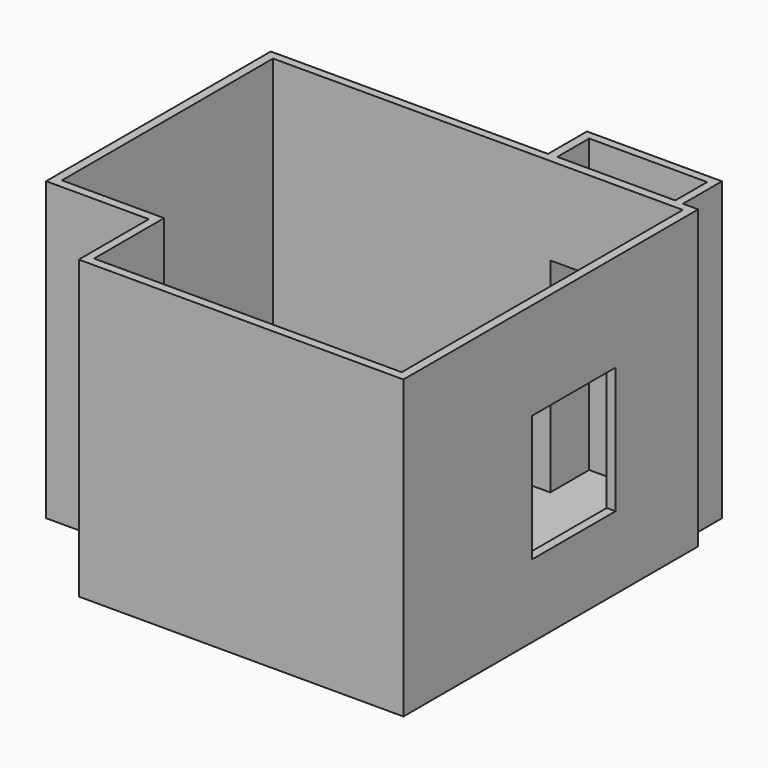
from build123d import *

# Parameters (mm, degrees)
F1_DEPTH  = 3048
F2_W      = 1092.2
F2_H      = 1320.8
F3_DEPTH  = 101.6
F4_W      = 812.8
F4_H      = 2133.6
F5_DEPTH  = 101.6
F7_DEPTH  = 50.8
F8_W      = 1231.9
F8_H      = 914.4
F9_DEPTH  = 92.075
F11_R     = 4.7625
F12_DEPTH = 152.4


with BuildPart() as f1:
    # F0 (on Top) → F1 (new body)
    with BuildSketch(Plane.XY):
        Polygon((663.575, 2428.875), (663.575, 1920.875), (-2232.025, 1920.875), (-2232.025, -1012.825), (-1158.875, -1012.825), (-1158.875, -1927.225), (2232.025, -1927.225), (2232.025, 1920.875), (2073.275, 1920.875), (2073.275, 2428.875), align=None)
        Polygon((-2139.95, 1835.15), (755.65, 1835.15), (755.65, 2343.15), (1987.55, 2343.15), (1987.55, 1835.15), (2139.95, 1835.15), (2139.95, -1835.15), (-1073.15, -1835.15), (-1073.15, -920.75), (-2139.95, -920.75), align=None, mode=Mode.SUBTRACT)
    extrude(amount=F1_DEPTH)

    # F2 (on face) → F3 (cut)
    with BuildSketch(Plane.YZ.offset(2232.025)):
        with Locations((295.275, 1371.6)):
            Rectangle(F2_W, F2_H)
    extrude(amount=-F3_DEPTH, mode=Mode.SUBTRACT)

    # F4 (on face) → F5 (cut)
    with BuildSketch(Plane(origin=(-2232.025, 0, 0), x_dir=(0, -1, 0), z_dir=(-1, 0, 0))):
        with Locations((454.025, 1066.8)):
            Rectangle(F4_W, F4_H)
    extrude(amount=-F5_DEPTH, mode=Mode.SUBTRACT)

    # F6 (on face) → F7 (join)
    with BuildSketch(Plane(origin=(0, 0, 0), x_dir=(1, 0, 0), z_dir=(0, 0, -1))):
        Polygon((-1158.875, 1012.825), (-2232.025, 1012.825), (-2232.025, 860.425), (-2139.95, 860.425), (-2139.95, 920.75), (-1073.15, 920.75), (-1073.15, 1835.15), (2139.95, 1835.15), (2139.95, -1835.15), (1987.55, -1835.15), (1987.55, -2343.15), (755.65, -2343.15), (755.65, -1835.15), (-2139.95, -1835.15), (-2139.95, 47.625), (-2232.025, 47.625), (-2232.025, -1920.875), (663.575, -1920.875), (663.575, -2428.875), (2073.275, -2428.875), (2073.275, -1920.875), (2232.025, -1920.875), (2232.025, 1927.225), (-1158.875, 1927.225), align=None)
        Polygon((-2139.95, 860.425), (-2232.025, 860.425), (-2232.025, 47.625), (-2139.95, 47.625), (-2139.95, -1835.15), (755.65, -1835.15), (755.65, -2343.15), (1987.55, -2343.15), (1987.55, -1835.15), (2139.95, -1835.15), (2139.95, 1835.15), (-1073.15, 1835.15), (-1073.15, 920.75), (-2139.95, 920.75), align=None)
    extrude(amount=F7_DEPTH)

    # F8 (on face) → F9 (join)
    with BuildSketch(Plane.XZ.offset(-1835.15)):
        with Locations((1371.6, 2590.8)):
            Rectangle(F8_W, F8_H)
    extrude(amount=-F9_DEPTH)


with BuildPart() as f12:
    # F11 (on offset) → F12 (new body)
    with BuildSketch(Plane.XY.offset(304.8)):
        with BuildLine():
            Line((-2197.1, -860.425), (-2197.1, -865.1875))
            Line((-2197.1, -865.1875), (-2127.25, -865.1875))
            ThreePointArc((-2127.25, -865.1875), (-2122.4875, -847.413608029), (-2135.498891971, -860.425))
            Line((-2135.498891971, -860.425), (-2197.1, -860.425))
        make_face()
        with Locations((-2127.25, -855.6625)):
            Circle(F11_R, mode=Mode.SUBTRACT)
    extrude(amount=F12_DEPTH)


solid = Compound([f1.part, f12.part])
